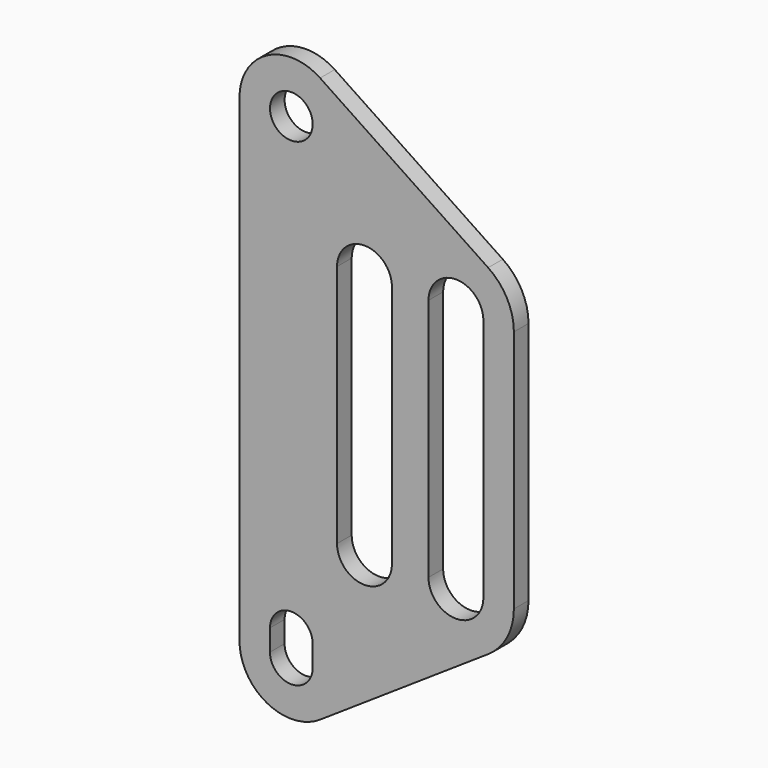
from build123d import *

# Parameters (mm, degrees)
F0_R     = 3.5
F1_DEPTH = 3


with BuildPart() as f1:
    # F0 (on Front) → F1 (new body)
    with BuildSketch(Plane.XZ):
        with BuildLine():
            Line((32.279203, -11.351898), (4.723497, 7.066723))
            ThreePointArc((4.723497, 7.066723), (-4.006262, 7.496657), (-8.5, 0))
            Line((-8.5, 0), (-8.5, -78.5))
            ThreePointArc((-8.5, -78.5), (-4.006262, -85.996657), (4.723497, -85.566723))
            Line((4.723497, -85.566723), (32.279203, -67.148102))
            ThreePointArc((32.279203, -67.148102), (35.378616, -63.727587), (36.5, -59.25))
            Line((36.5, -59.25), (36.5, -19.25))
            ThreePointArc((36.5, -19.25), (35.378616, -14.772413), (32.279203, -11.351898))
        make_face()
        with BuildLine():
            ThreePointArc((-3.5, -75), (0, -71.5), (3.5, -75))
            Line((3.5, -75), (3.5, -78.5))
            ThreePointArc((3.5, -78.5), (0, -82), (-3.5, -78.5))
            Line((-3.5, -78.5), (-3.5, -75))
        make_face(mode=Mode.SUBTRACT)
        with BuildLine():
            ThreePointArc((7.5, -19.25), (12, -14.75), (16.5, -19.25))
            Line((16.5, -19.25), (16.5, -59.25))
            ThreePointArc((16.5, -59.25), (12, -63.75), (7.5, -59.25))
            Line((7.5, -59.25), (7.5, -19.25))
        make_face(mode=Mode.SUBTRACT)
        Circle(F0_R, mode=Mode.SUBTRACT)
        with BuildLine():
            ThreePointArc((22.5, -19.25), (27, -14.75), (31.5, -19.25))
            Line((31.5, -19.25), (31.5, -59.25))
            ThreePointArc((31.5, -59.25), (27, -63.75), (22.5, -59.25))
            Line((22.5, -59.25), (22.5, -19.25))
        make_face(mode=Mode.SUBTRACT)
    extrude(amount=F1_DEPTH)


solid = f1.part
